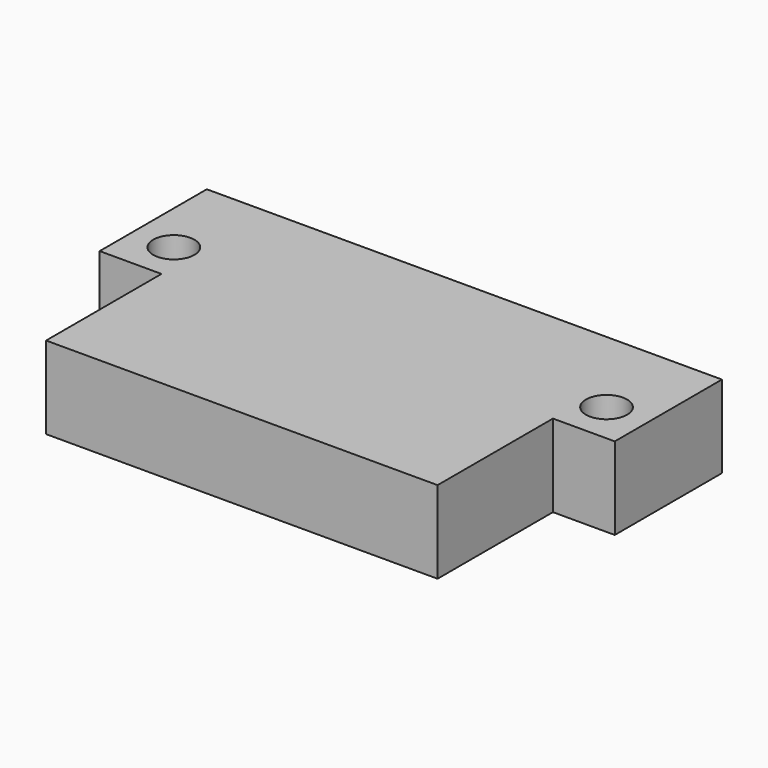
from build123d import *

# Parameters (mm, degrees)
F0_R     = 1
F1_DEPTH = 4


with BuildPart() as f1:
    # F0 (on Top) → F1 (new body)
    with BuildSketch(Plane.XY):
        Polygon((12.5, 13.5), (0, 13.5), (-12.5, 13.5), (-12.5, 7), (-9.5, 7), (-9.5, 0), (0, 0), (9.5, 0), (9.5, 7), (12.5, 7), align=None)
        with Locations((-10.5, 9)):
            Circle(F0_R, mode=Mode.SUBTRACT)
        with Locations((10.5, 9)):
            Circle(F0_R, mode=Mode.SUBTRACT)
    extrude(amount=F1_DEPTH)


solid = f1.part
